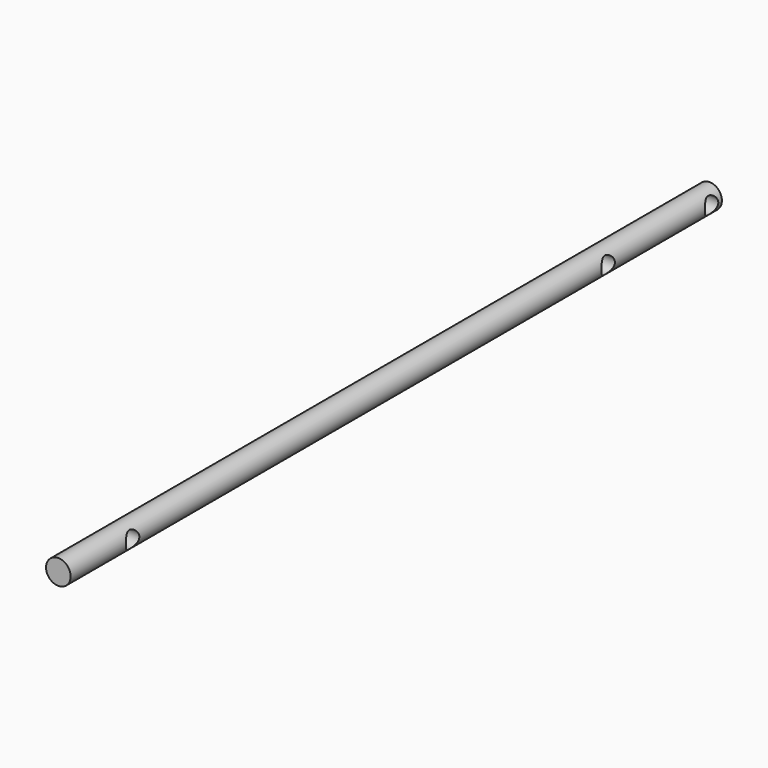
from build123d import *

# Parameters (mm, degrees)
F0_R          = 9.5
F1_DEPTH      = 630
F2_R          = 6.5
F3_DEPTH      = 25
F3_DEPTH_BACK = 25


with BuildPart() as f1:
    # F0 (on Front) → F1 (new body)
    with BuildSketch(Plane.XZ):
        Circle(F0_R)
    extrude(amount=F1_DEPTH)

    # F2 (on Right) → F3 (cut, two sides)
    with BuildSketch(Plane.YZ) as f3_sk:
        with Locations((-10, 0)):
            Circle(F2_R)
        with Locations((-110, 0)):
            Circle(F2_R)
        with Locations((-570, 0)):
            Circle(F2_R)
    extrude(amount=F3_DEPTH, mode=Mode.SUBTRACT)
    extrude(f3_sk.sketch, amount=-F3_DEPTH_BACK, mode=Mode.SUBTRACT)


solid = f1.part
